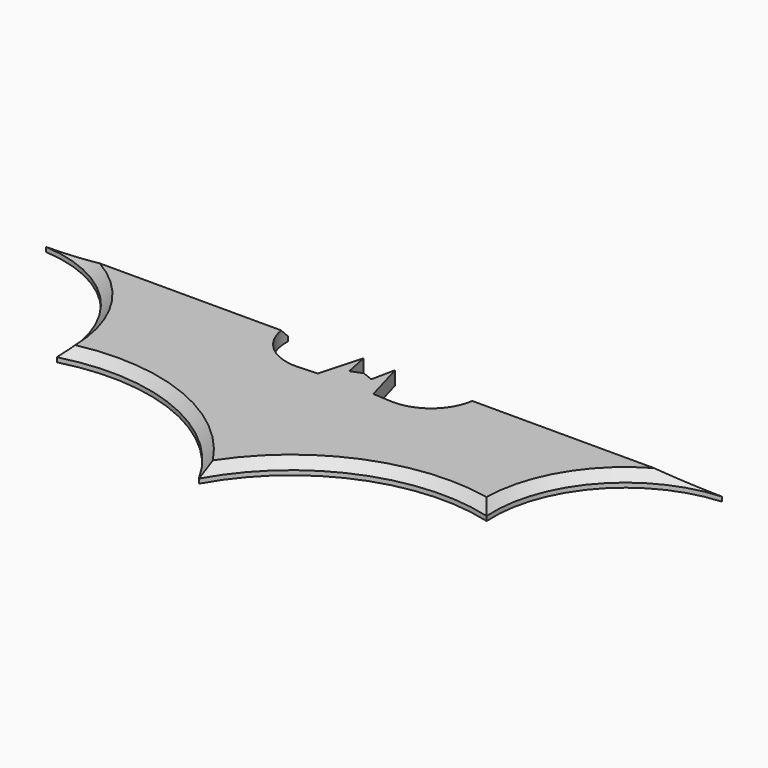
from build123d import *

# Parameters (mm, degrees)
PAD_DEPTH    = 3
CHAMFER_SIZE = 2


with BuildPart() as body:
    # Sketch → Pad (new body)
    with BuildSketch(Plane.XY):
        with BuildLine():
            Line((0, 0), (0, 14.502488))
            Line((0, 14.502488), (2.444644, 13.541802))
            Line((2.444644, 13.541802), (3.525413, 18.825575))
            Line((3.525413, 18.825575), (6.167308, 9.459041))
            Line((6.167308, 9.459041), (10.250262, 9.218303))
            ThreePointArc((10.250262, 9.218303), (18.202038, 12.211905), (21.296978, 20.124789))
            Line((21.296978, 20.124789), (75, 20.124789))
            ThreePointArc((75, 20.124789), (54.90279, 10.195186), (47.700768, -11.032761))
            ThreePointArc((47.700768, -11.032761), (20.35465, -12.880568), (0, -31.235753))
            Line((0, -31.235753), (0, 0))
        make_face()
    extrude(amount=PAD_DEPTH)

    # Chamfer
    chamfer_edges = [body.edges().sort_by_distance(p)[0] for p in [
        (20.35465, -12.880568, 3),
        (54.90279, 10.195186, 3),
        (48.148489, 20.124789, 3),
    ]]
    chamfer(chamfer_edges, length=CHAMFER_SIZE)


with BuildPart() as part_mirroring:
    # Part__Mirroring: instance of Body
    add(body.part.mirror(Plane(origin=(0, 0, 0), x_dir=(0, -1, 0), z_dir=(1, 0, 0))))


with BuildPart() as fusion:
    # Fusion base: copy of Body
    add(body.part)

    # Fusion: union Part__Mirroring
    add(part_mirroring.part)


solid = fusion.part
